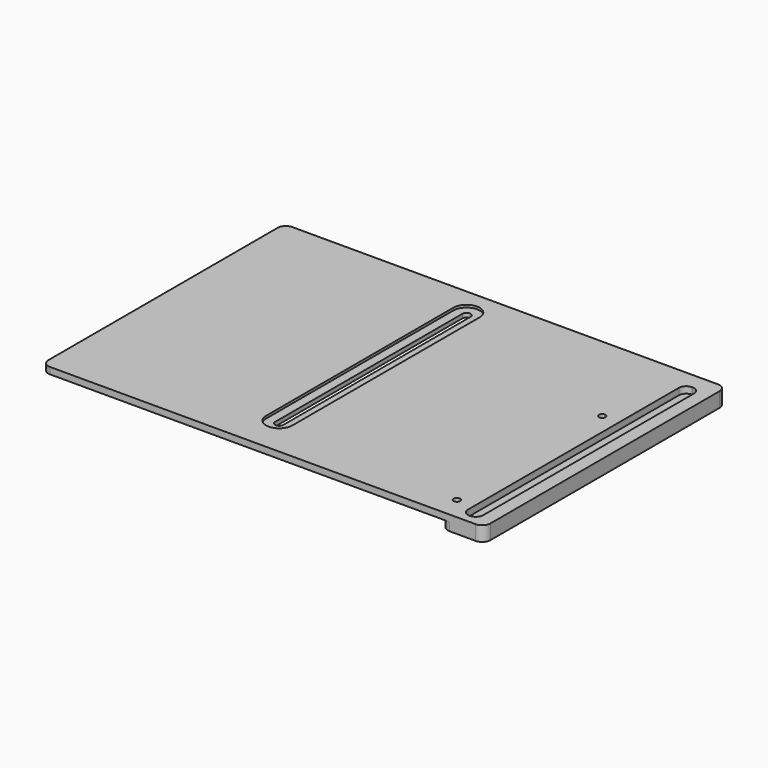
from build123d import *

# Parameters (mm, degrees)
F0_W      = 250
F0_H      = 185
F1_DEPTH  = 4
F3_DEPTH  = 1.5
F5_DEPTH  = 5
F6_R      = 2
F7_DEPTH  = 25
F8_DEPTH  = 20
F10_DEPTH = 4.001
F12_DEPTH = 5
F13_R     = 5


with BuildPart() as f1:
    # F0 (on Top) → F1 (new body)
    with BuildSketch(Plane.XY):
        with Locations((45.8660066128, 4.6654982038)):
            Rectangle(F0_W, F0_H)
    extrude(amount=F1_DEPTH)

    # F2 (on face) → F3 (cut)
    with BuildSketch(Plane.XY.offset(4)):
        with BuildLine():
            ThreePointArc((53.8660066128, 80.1654982038), (51.5228608623, 85.8223524533), (45.8660066128, 88.1654982038))
            ThreePointArc((45.8660066128, 88.1654982038), (40.2091523633, 85.8223524533), (37.8660066128, 80.1654982038))
            Line((37.8660066128, 80.1654982038), (37.8660066128, -62.8345017962))
            ThreePointArc((37.8660066128, -62.8345017962), (40.2091523633, -68.4913560457), (45.8660066128, -70.8345017962))
            ThreePointArc((45.8660066128, -70.8345017962), (51.5228608623, -68.4913560457), (53.8660066128, -62.8345017962))
            Line((53.8660066128, -62.8345017962), (53.8660066128, 80.1654982038))
        make_face()
        with BuildLine():
            ThreePointArc((53.8660066128, 80.1654982038), (51.5228608623, 85.8223524533), (45.8660066128, 88.1654982038))
            ThreePointArc((45.8660066128, 88.1654982038), (40.2091523633, 85.8223524533), (37.8660066128, 80.1654982038))
            Line((37.8660066128, 80.1654982038), (37.8660066128, -62.8345017962))
            ThreePointArc((37.8660066128, -62.8345017962), (40.2091523633, -68.4913560457), (45.8660066128, -70.8345017962))
            ThreePointArc((45.8660066128, -70.8345017962), (51.5228608623, -68.4913560457), (53.8660066128, -62.8345017962))
            Line((53.8660066128, -62.8345017962), (53.8660066128, 80.1654982038))
        make_face()
    extrude(amount=-F3_DEPTH, mode=Mode.SUBTRACT)

    # F4 (on face) → F5 (cut)
    with BuildSketch(Plane.XY.offset(2.5)):
        with BuildLine():
            Line((48.3660066128, -62.8345017962), (48.3660066128, 80.1654982038))
            ThreePointArc((48.3660066128, 80.1654982038), (45.8660066128, 82.6654982038), (43.3660066128, 80.1654982038))
            Line((43.3660066128, 80.1654982038), (43.3660066128, -62.8345017962))
            ThreePointArc((43.3660066128, -62.8345017962), (45.8660066128, -65.3345017962), (48.3660066128, -62.8345017962))
        make_face()
    extrude(amount=-F5_DEPTH, mode=Mode.SUBTRACT)

    # F6 (on face) → F7 (cut)
    with BuildSketch(Plane.XY.offset(4)):
        with Locations((163.1860066128, 37.1654982038)):
            Circle(F6_R)
        with Locations((163.1860066128, -73.8345017962)):
            Circle(F6_R)
    extrude(amount=-F7_DEPTH, mode=Mode.SUBTRACT)

    # F8 (add): a face of the model
    f8_faces = [f1.faces().sort_by_distance(p)[0] for p in [
        (170.8660066128, 4.6654982038, 2),
    ]]
    extrude(f8_faces, amount=F8_DEPTH)

    # F9 (on face) → F10 (cut, through all)
    with BuildSketch(Plane.XY.offset(4)):
        with BuildLine():
            Line((178.3660066128, 87.1654982038), (178.0660066128, 87.1654982038))
            ThreePointArc((178.0660066128, 87.1654982038), (174.8840260974, 85.8474787192), (173.5660066128, 82.6654982038))
            Line((173.5660066128, 82.6654982038), (173.5660066128, -78.3345017962))
            ThreePointArc((173.5660066128, -78.3345017962), (174.8840260974, -81.5164823115), (178.0660066128, -82.8345017962))
            Line((178.0660066128, -82.8345017962), (178.3660066128, -82.8345017962))
            ThreePointArc((178.3660066128, -82.8345017962), (181.5479871281, -81.5164823115), (182.8660066128, -78.3345017962))
            Line((182.8660066128, -78.3345017962), (182.8660066128, 82.6654982038))
            ThreePointArc((182.8660066128, 82.6654982038), (181.5479871281, 85.8474787192), (178.3660066128, 87.1654982038))
        make_face()
    extrude(amount=-F10_DEPTH, mode=Mode.SUBTRACT)

    # F11 (on face) → F12 (join)
    with BuildSketch(Plane(origin=(0, 0, 0), x_dir=(1, 0, 0), z_dir=(0, 0, -1))):
        with BuildLine():
            Line((190.8660066128, -97.1654982038), (190.8660066128, 87.8345017962))
            Line((190.8660066128, 87.8345017962), (164.8207604885, 87.8345017962))
            Line((164.8207604885, 87.8345017962), (164.8207604885, 74.9867082732))
            ThreePointArc((164.8207604885, 74.9867082732), (165.0925096617, 74.4388577544), (165.1860066128, 73.8345017962))
            ThreePointArc((165.1860066128, 73.8345017962), (165.0925096617, 73.2301458379), (164.8207604885, 72.6822953191))
            Line((164.8207604885, 72.6822953191), (164.8207604885, -36.0132917268))
            ThreePointArc((164.8207604885, -36.0132917268), (165.0925096617, -36.5611422456), (165.1860066128, -37.1654982038))
            ThreePointArc((165.1860066128, -37.1654982038), (165.0925096617, -37.7698541621), (164.8207604885, -38.3177046809))
            Line((164.8207604885, -38.3177046809), (164.8207604885, -97.1654982038))
            Line((164.8207604885, -97.1654982038), (190.8660066128, -97.1654982038))
        make_face()
        with BuildLine():
            ThreePointArc((182.8660066128, -82.6654982038), (181.5479871281, -85.8474787192), (178.3660066128, -87.1654982038))
            Line((178.3660066128, -87.1654982038), (178.0660066128, -87.1654982038))
            ThreePointArc((178.0660066128, -87.1654982038), (174.8840260974, -85.8474787192), (173.5660066128, -82.6654982038))
            Line((173.5660066128, -82.6654982038), (173.5660066128, 78.3345017962))
            ThreePointArc((173.5660066128, 78.3345017962), (174.8840260974, 81.5164823115), (178.0660066128, 82.8345017962))
            Line((178.0660066128, 82.8345017962), (178.3660066128, 82.8345017962))
            ThreePointArc((178.3660066128, 82.8345017962), (181.5479871281, 81.5164823115), (182.8660066128, 78.3345017962))
            Line((182.8660066128, 78.3345017962), (182.8660066128, -82.6654982038))
        make_face(mode=Mode.SUBTRACT)
        with BuildLine():
            Line((178.0660066128, -87.1654982038), (178.3660066128, -87.1654982038))
            ThreePointArc((178.3660066128, -87.1654982038), (181.5479871281, -85.8474787192), (182.8660066128, -82.6654982038))
            Line((182.8660066128, -82.6654982038), (182.8660066128, 78.3345017962))
            ThreePointArc((182.8660066128, 78.3345017962), (181.5479871281, 81.5164823115), (178.3660066128, 82.8345017962))
            Line((178.3660066128, 82.8345017962), (178.0660066128, 82.8345017962))
            ThreePointArc((178.0660066128, 82.8345017962), (174.8840260974, 81.5164823115), (173.5660066128, 78.3345017962))
            Line((173.5660066128, 78.3345017962), (173.5660066128, -82.6654982038))
            ThreePointArc((173.5660066128, -82.6654982038), (174.8840260974, -85.8474787192), (178.0660066128, -87.1654982038))
        make_face()
    extrude(amount=F12_DEPTH)

    # F13
    f13_edges = [f1.edges().sort_by_distance(p)[0] for p in [
        (190.866007, 97.165498, -0.5),
        (-79.133993, 97.165498, 2),
        (-79.133993, -87.834502, 2),
        (190.866007, -87.834502, -0.5),
        (164.82076, -87.834502, -2.5),
        (164.82076, 97.165498, -2.5),
    ]]
    fillet(f13_edges, radius=F13_R)


solid = f1.part
